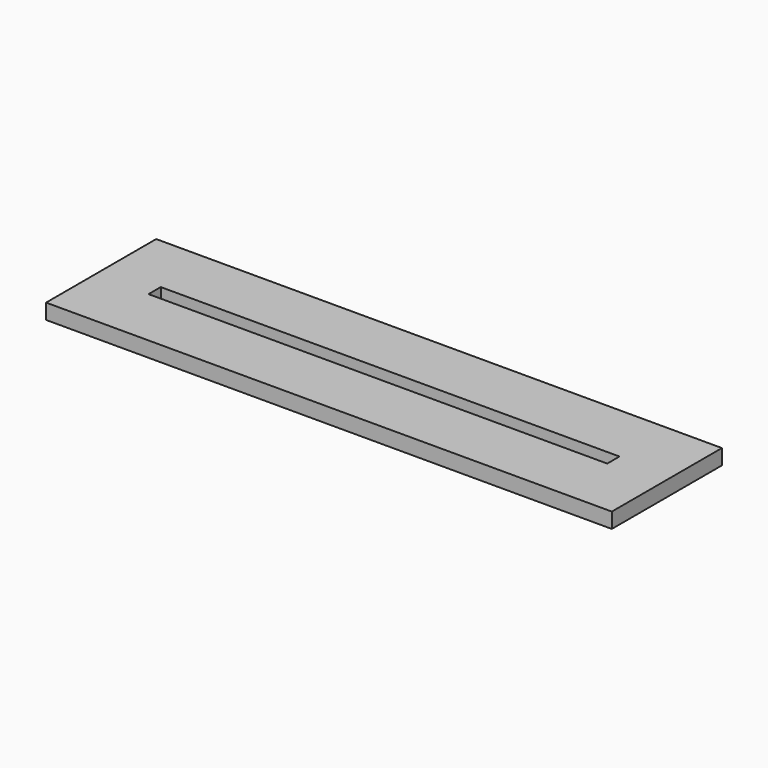
from build123d import *

# Parameters (mm, degrees)
F0_W     = 120
F0_H     = 4
F1_DEPTH = 4


with BuildPart() as f1:
    # F0 (on Top) → F1 (new body)
    with BuildSketch(Plane.XY):
        Polygon((67.556916, -1.938069), (67.556916, 14.061931), (-80.443084, 14.061931), (-80.443084, -1.938069), (-80.443084, -5.938069), (-80.443084, -21.938069), (67.556916, -21.938069), (67.556916, -5.938069), align=None)
        with Locations((-6.443084, -3.938069)):
            Rectangle(F0_W, F0_H, mode=Mode.SUBTRACT)
    extrude(amount=F1_DEPTH)


solid = f1.part
